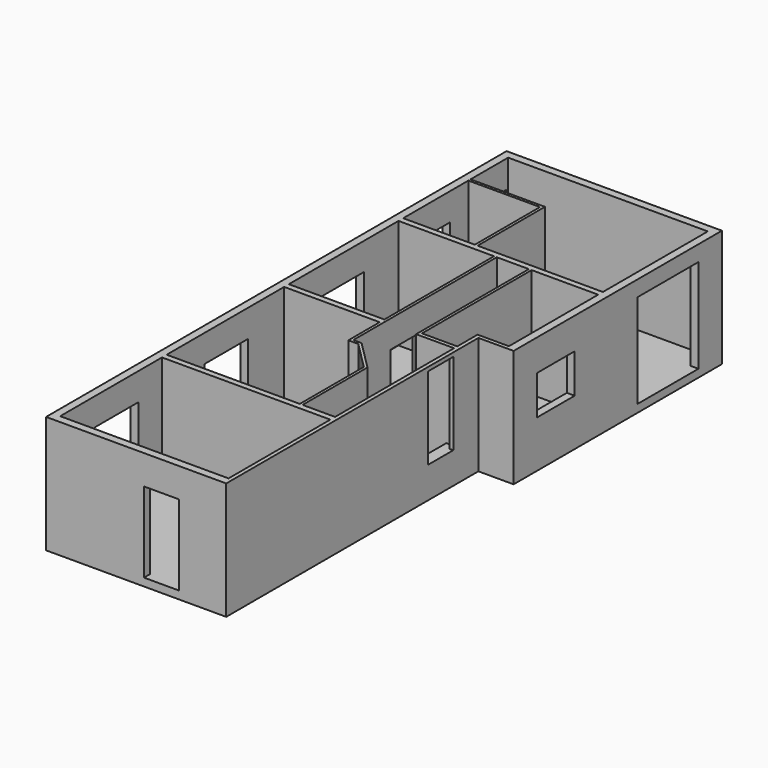
from build123d import *

# Parameters (mm, degrees)
F1_DEPTH  = 762
F3_DEPTH  = 711.2
F4_W      = 464.82
F4_H      = 528.32
F5_DEPTH  = 711.2
F6_W      = 619.76
F6_H      = 889
F7_DEPTH  = 711.2
F8_W      = 1092.2
F8_H      = 825.5
F9_DEPTH  = 711.2
F11_DEPTH = 711.2
F13_DEPTH = 711.2
F15_DEPTH = 711.2
F16_W     = 203.2
F16_H     = 533.4
F17_DEPTH = 25.4
F18_W     = 203.2
F18_H     = 508
F19_DEPTH = 17.78
F20_W     = 203.2
F20_H     = 533.4
F21_DEPTH = 17.78
F22_W     = 177.8
F22_H     = 533.4
F23_DEPTH = 38.1
F24_W     = 203.2
F24_H     = 533.4
F25_DEPTH = 38.1
F26_W     = 203.2
F26_H     = 533.4
F27_DEPTH = 17.78
F28_W     = 228.6
F28_H     = 533.4
F29_DEPTH = 50.8
F30_W     = 355.6
F30_H     = 342.9
F30_W_2   = 152.4
F30_H_2   = 114.3
F31_DEPTH = 50.8
F32_W     = 304.8
F32_H     = 254
F32_W_2   = 495.3
F32_H_2   = 609.6
F33_DEPTH = 50.8
F34_W     = 228.6
F34_H     = 520.7
F35_DEPTH = 50.8
F37_DEPTH = 241.3
F38_W     = 203.2
F38_H     = 533.4
F39_DEPTH = 17.78


with BuildPart() as f1:
    # F0 (on Top) → F1 (new body)
    with BuildSketch(Plane.XY):
        Polygon((-1397, 1689.1), (-1397, -2044.7), (-228.6, -2044.7), (-228.6, 0), (0, 0), (0, 1689.1), align=None)
    extrude(amount=F1_DEPTH)

    # F2 (on face) → F3 (cut)
    with BuildSketch(Plane.XY.offset(762)):
        Polygon((-50.8, 1638.3), (-1346.2, 1638.3), (-1346.2, 1333.5), (-863.6, 1333.5), (-863.6, 787.4), (-50.8, 787.4), align=None)
    extrude(amount=-F3_DEPTH, mode=Mode.SUBTRACT)

    # F4 (on face) → F5 (cut)
    with BuildSketch(Plane.XY.offset(762)):
        with Locations((-1113.79, 1051.56)):
            Rectangle(F4_W, F4_H)
    extrude(amount=-F5_DEPTH, mode=Mode.SUBTRACT)

    # F6 (on face) → F7 (cut)
    with BuildSketch(Plane.XY.offset(762)):
        with Locations((-1036.32, 304.8)):
            Rectangle(F6_W, F6_H)
    extrude(amount=-F7_DEPTH, mode=Mode.SUBTRACT)

    # F8 (on face) → F9 (cut)
    with BuildSketch(Plane.XY.offset(762)):
        with Locations((-800.1, -1581.15)):
            Rectangle(F8_W, F8_H)
    extrude(amount=-F9_DEPTH, mode=Mode.SUBTRACT)

    # F10 (on face) → F11 (cut)
    with BuildSketch(Plane.XY.offset(762)):
        Polygon((-726.44, -177.8), (-1346.2, -177.8), (-1346.2, -1130.3), (-482.6, -1130.3), (-482.6, -611.405122), (-662.205122, -431.8), (-726.44, -431.8), align=None)
    extrude(amount=-F11_DEPTH, mode=Mode.SUBTRACT)

    # F12 (on face) → F13 (cut)
    with BuildSketch(Plane.XY.offset(762)):
        Polygon((-50.8, 749.3), (-482.6, 749.3), (-482.6, -139.7), (-254, -139.7), (-254, 25.4), (-50.8, 25.4), align=None)
    extrude(amount=-F13_DEPTH, mode=Mode.SUBTRACT)

    # F14 (on face) → F15 (cut)
    with BuildSketch(Plane.XY.offset(762)):
        Polygon((-500.38, 749.3), (-708.66, 749.3), (-708.66, -414.02), (-654.840405, -414.02), (-464.82, -604.040405), (-464.82, -1130.3), (-254, -1130.3), (-254, -165.1), (-500.38, -165.1), align=None)
    extrude(amount=-F15_DEPTH, mode=Mode.SUBTRACT)

    # F16 (on face) → F17 (cut, through all)
    with BuildSketch(Plane(origin=(-254, 0, 0), x_dir=(0, -1, 0), z_dir=(-1, 0, 0))):
        with Locations((304.8, 469.9)):
            Rectangle(F16_W, F16_H)
    extrude(amount=-F17_DEPTH, mode=Mode.SUBTRACT)

    # F18 (on face) → F19 (cut, through all)
    with BuildSketch(Plane(origin=(-482.6, 0, 0), x_dir=(0, -1, 0), z_dir=(-1, 0, 0))):
        with Locations((1003.3, 304.8)):
            Rectangle(F18_W, F18_H)
    extrude(amount=-F19_DEPTH, mode=Mode.SUBTRACT)

    # F20 (on face) → F21 (cut, through all)
    with BuildSketch(Plane(origin=(-726.44, 0, 0), x_dir=(0, -1, 0), z_dir=(-1, 0, 0))):
        with Locations((12.7, 317.5)):
            Rectangle(F20_W, F20_H)
    extrude(amount=-F21_DEPTH, mode=Mode.SUBTRACT)

    # F22 (on face) → F23 (cut, through all)
    with BuildSketch(Plane(origin=(0, -1130.3, 0), x_dir=(-1, 0, 0), z_dir=(0, 1, 0))):
        with Locations((355.6, 317.5)):
            Rectangle(F22_W, F22_H)
    extrude(amount=-F23_DEPTH, mode=Mode.SUBTRACT)

    # F24 (on face) → F25 (cut, through all)
    with BuildSketch(Plane.XZ.offset(-749.3)):
        with Locations((-607.06, 317.5)):
            Rectangle(F24_W, F24_H)
    extrude(amount=-F25_DEPTH, mode=Mode.SUBTRACT)

    # F26 (on face) → F27 (cut, through all)
    with BuildSketch(Plane.YZ.offset(-863.6)):
        with Locations((952.5, 317.5)):
            Rectangle(F26_W, F26_H)
    extrude(amount=-F27_DEPTH, mode=Mode.SUBTRACT)

    # F28 (on face) → F29 (cut, through all)
    with BuildSketch(Plane.YZ.offset(-1346.2)):
        with Locations((1511.3, 317.5)):
            Rectangle(F28_W, F28_H)
    extrude(amount=-F29_DEPTH, mode=Mode.SUBTRACT)

    # F30 (on face) → F31 (cut, through all)
    with BuildSketch(Plane(origin=(-1397, 0, 0), x_dir=(0, -1, 0), z_dir=(-1, 0, 0))):
        with Locations((1536.7, 412.75)):
            Rectangle(F30_W, F30_H)
        with Locations((647.7, 412.75)):
            Rectangle(F30_W, F30_H)
        with Locations((-292.1, 412.75)):
            Rectangle(F30_W, F30_H)
        with Locations((-1092.2, 527.05)):
            Rectangle(F30_W_2, F30_H_2)
    extrude(amount=-F31_DEPTH, mode=Mode.SUBTRACT)

    # F32 (on face) → F33 (cut, through all)
    with BuildSketch(Plane.YZ):
        with Locations((342.9, 431.8)):
            Rectangle(F32_W, F32_H)
        with Locations((1250.95, 355.6)):
            Rectangle(F32_W_2, F32_H_2)
    extrude(amount=-F33_DEPTH, mode=Mode.SUBTRACT)

    # F34 (on face) → F35 (cut, through all)
    with BuildSketch(Plane.XZ.offset(2044.7)):
        with Locations((-647.7, 311.15)):
            Rectangle(F34_W, F34_H)
    extrude(amount=-F35_DEPTH, mode=Mode.SUBTRACT)

    # F36 (on face) → F37 (join, through all)
    with BuildSketch(Plane.XZ.offset(165.1)):
        Polygon((-406.4, 50.8), (-254, 50.8), (-254, 203.2), (-304.8, 203.2), (-304.8, 152.4), (-355.6, 152.4), (-355.6, 101.6), (-406.4, 101.6), align=None)
    extrude(amount=F37_DEPTH)

    # F38 (on face) → F39 (cut, through all)
    with BuildSketch(Plane(origin=(-500.38, 0, 0), x_dir=(0, -1, 0), z_dir=(-1, 0, 0))):
        with Locations((0, 317.5)):
            Rectangle(F38_W, F38_H)
    extrude(amount=-F39_DEPTH, mode=Mode.SUBTRACT)


solid = f1.part
